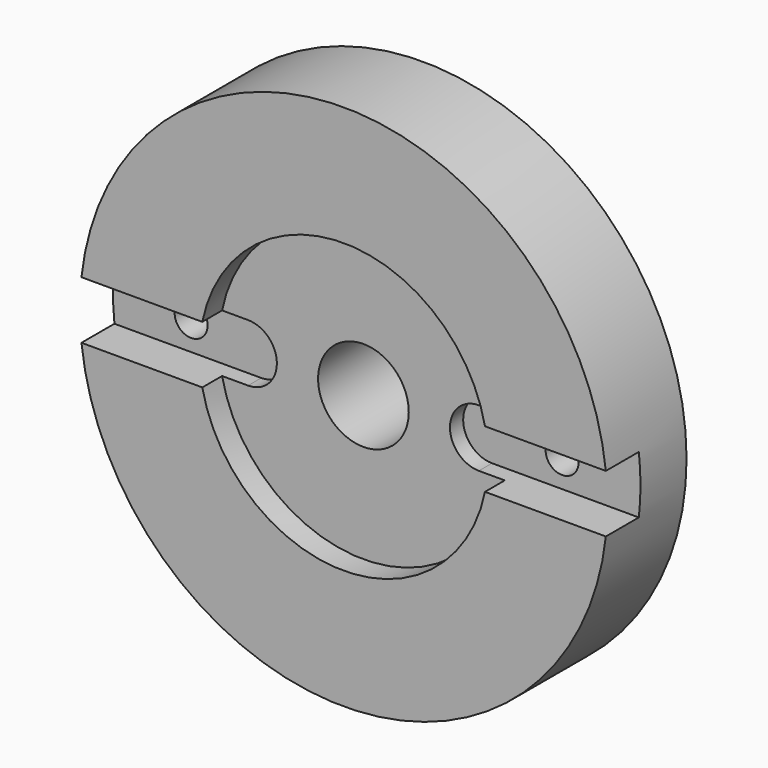
from build123d import *

# Parameters (mm, degrees)
F0_R      = 32
F1_DEPTH  = 20
F2_R      = 17.5
F3_DEPTH  = 3
F5_DEPTH  = 5
F6_R      = 32
F6_R_2    = 10
F7_DEPTH  = 8
F8_R      = 5.5
F9_DEPTH  = 17.001
F10_R     = 2
F11_DEPTH = 20.001


with BuildPart() as f1:
    # F0 (on Front) → F1 (new body)
    with BuildSketch(Plane.XZ):
        Circle(F0_R)
    extrude(amount=-F1_DEPTH)

    # F2 (on Front) → F3 (cut)
    with BuildSketch(Plane.XZ):
        Circle(F2_R)
    extrude(amount=-F3_DEPTH, mode=Mode.SUBTRACT)

    # F4 (on face) → F5 (cut)
    with BuildSketch(Plane.XZ):
        with BuildLine():
            Line((32, 3.5), (14, 3.5))
            ThreePointArc((14, 3.5), (10.5, 0), (14, -3.5))
            Line((14, -3.5), (32, -3.5))
            Line((32, -3.5), (32, 3.5))
        make_face()
        with BuildLine():
            ThreePointArc((-14, -3.5), (-10.5, 0), (-14, 3.5))
            Line((-14, 3.5), (-32, 3.5))
            Line((-32, 3.5), (-32, -3.5))
            Line((-32, -3.5), (-14, -3.5))
        make_face()
    extrude(amount=-F5_DEPTH, mode=Mode.SUBTRACT)

    # F6 (on face) → F7 (cut)
    with BuildSketch(Plane(origin=(0, 20, 0), x_dir=(-1, 0, 0), z_dir=(0, 1, 0))):
        Circle(F6_R)
        Circle(F6_R_2, mode=Mode.SUBTRACT)
    extrude(amount=-F7_DEPTH, mode=Mode.SUBTRACT)

    # F8 (on face) → F9 (cut, through all)
    with BuildSketch(Plane.XZ.offset(-3)):
        Circle(F8_R)
    extrude(amount=-F9_DEPTH, mode=Mode.SUBTRACT)

    # F10 (on Front) → F11 (cut, through all)
    with BuildSketch(Plane.XZ):
        with Locations((-22.5, 0)):
            Circle(F10_R)
        with Locations((22.5, 0)):
            Circle(F10_R)
    extrude(amount=-F11_DEPTH, mode=Mode.SUBTRACT)


solid = f1.part
